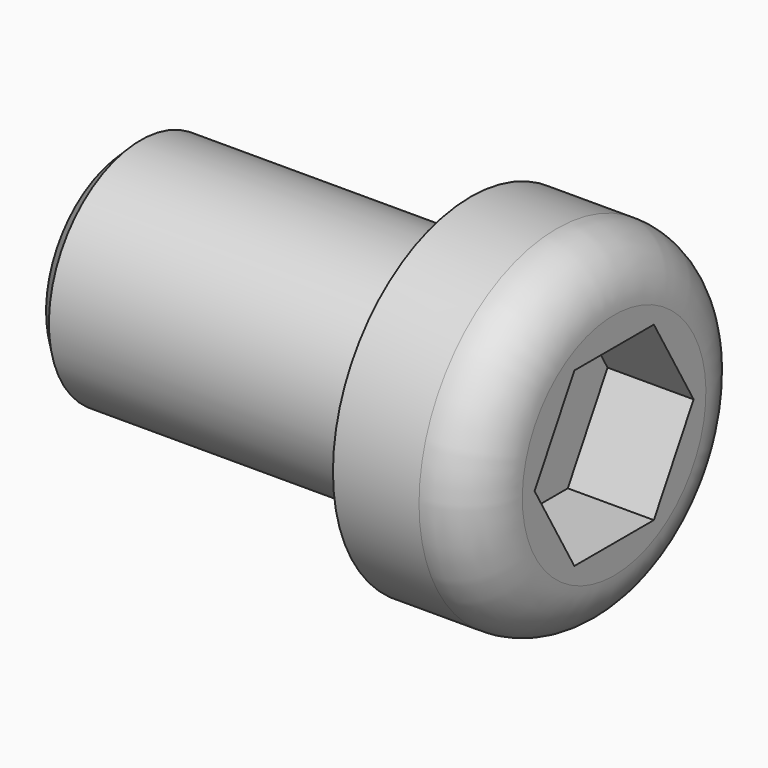
from build123d import *

# Parameters (mm, degrees)
F2_SIZE2 = 0.25
F2_SIZE  = 0.25
F3_R     = 1
F5_DEPTH = 1.5


with BuildPart() as f1:
    # F0 (on Front) → F1 (revolve)
    with BuildSketch(Plane.XZ):
        Polygon((4.25, 0), (-4.25, 0), (-4.25, -2), (1.75, -2), (1.75, -3), (4.25, -3), align=None)
    revolve(axis=Axis((4.160319, 0, 0), (1, 0, 0)))

    # F2
    f2_edges = [f1.edges().sort_by_distance(p)[0] for p in [
        (-4.25, 0, 2),
    ]]
    chamfer(f2_edges, length=F2_SIZE, length2=F2_SIZE2)

    # F3
    f3_edges = [f1.edges().sort_by_distance(p)[0] for p in [
        (4.25, 0, 3),
    ]]
    fillet(f3_edges, radius=F3_R)

    # F4 (on face) → F5 (cut)
    with BuildSketch(Plane.YZ.offset(4.25)):
        Polygon((0.866025, 1.5), (-0.866025, 1.5), (-1.732051, 0), (-0.866025, -1.5), (0.866025, -1.5), (1.732051, 0), align=None)
    extrude(amount=-F5_DEPTH, mode=Mode.SUBTRACT)


solid = f1.part
